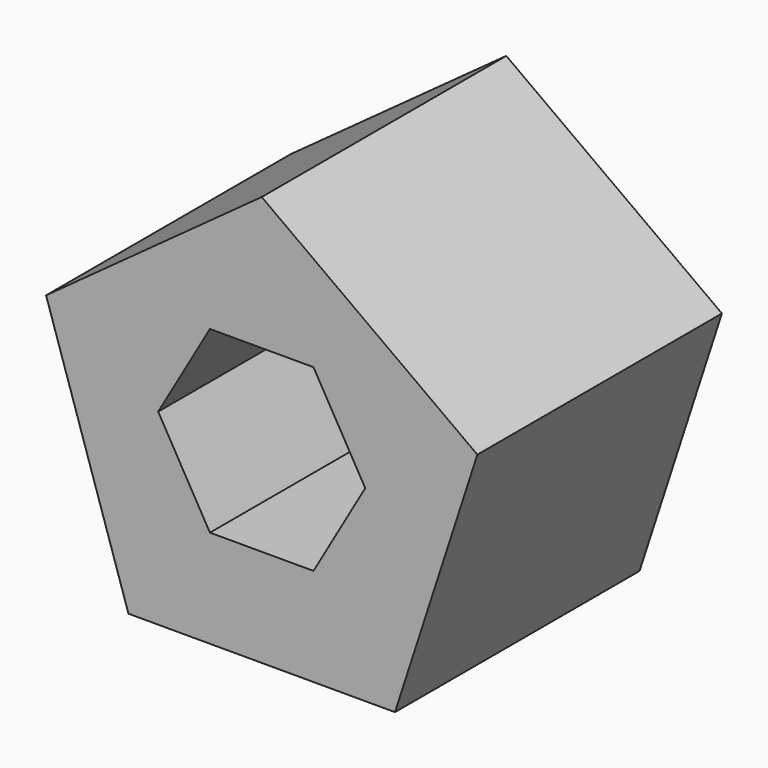
from build123d import *

# Parameters (mm, degrees)
F1_DEPTH = 50


with BuildPart() as f1:
    # F0 (on Front) → F1 (new body)
    with BuildSketch(Plane.XZ):
        Polygon((-35.267115, 11.45898), (-21.796276, -30), (21.796276, -30), (35.267115, 11.45898), (0, 37.082039), align=None)
        Polygon((-16.933772, 0.669846), (-8.466886, 15.334923), (8.466886, 15.334923), (16.933772, 0.669846), (8.466886, -13.995231), (-8.466886, -13.995231), align=None, mode=Mode.SUBTRACT)
    extrude(amount=F1_DEPTH)


solid = f1.part
